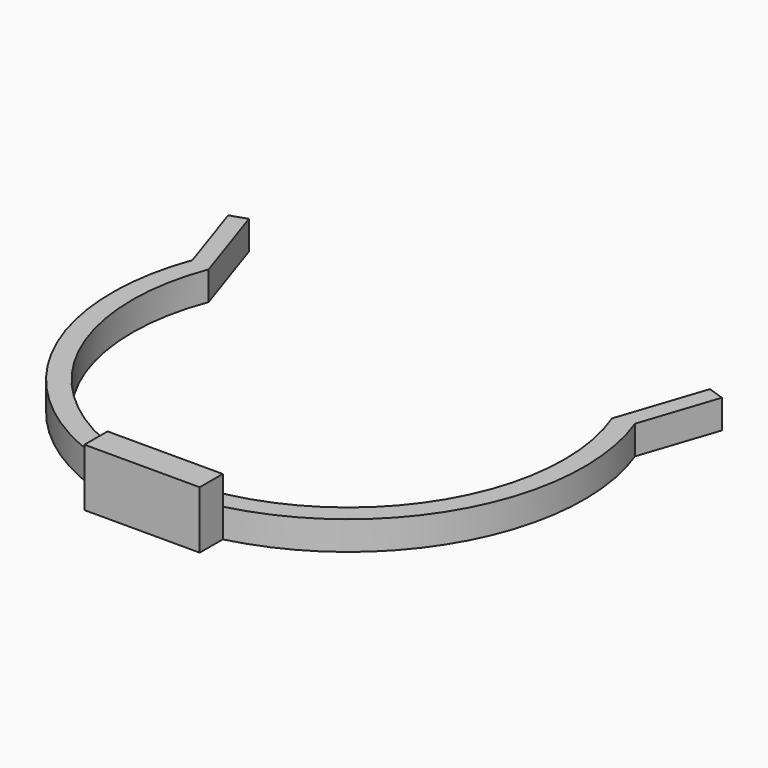
from build123d import *

# Parameters (mm, degrees)
PAD_DEPTH    = 5
SKETCH001_W  = 20
SKETCH001_H  = 5
PAD001_DEPTH = 5


with BuildPart() as part:
    # Sketch → Pad (new body)
    with BuildSketch(Plane.XY):
        with BuildLine():
            ThreePointArc((-35, 13.462912), (0, -37.5), (35, 13.462912))
            Line((35, 13.462912), (40, 28.462912))
            Line((40, 28.462912), (42.84605, 27.514229))
            Line((42.84605, 27.514229), (38.412275, 14.212903))
            ThreePointArc((10, -39.717873), (36.236297, -19.090317), (38.412275, 14.212903))
            Line((10, -44.717873), (10, -39.717873))
            Line((-10, -44.717873), (10, -44.717873))
            Line((-10, -39.717873), (-10, -44.717873))
            ThreePointArc((-38.412275, 14.212903), (-36.236297, -19.090317), (-10, -39.717873))
            Line((-42.84605, 27.514229), (-38.412275, 14.212903))
            Line((-42.84605, 27.514229), (-40, 28.462912))
            Line((-35, 13.462912), (-40, 28.462912))
        make_face()
    extrude(amount=PAD_DEPTH)

    # Sketch001 (on Face14 of Pad) → Pad001 (join)
    with BuildSketch(Plane.XY.offset(5)):
        with Locations((0, -42.217873)):
            Rectangle(SKETCH001_W, SKETCH001_H)
    extrude(amount=PAD001_DEPTH)


solid = part.part
